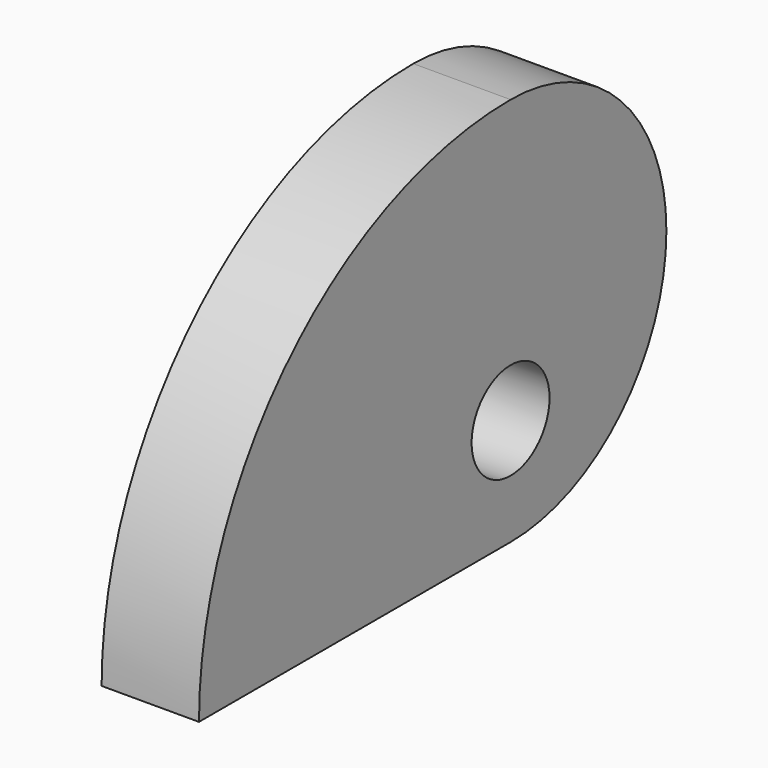
from build123d import *

# Parameters (mm, degrees)
F1_DEPTH = 3.175
F2_R     = 3.175
F3_DEPTH = 6.351


with BuildPart() as f1:
    # F0 (on Right) → F1 (new body, symmetric)
    with BuildSketch(Plane.YZ):
        with BuildLine():
            Line((0, -12.7), (0, 0))
            Line((0, 0), (0, 12.7))
            ThreePointArc((0, 12.7), (-17.960512, 5.260512), (-25.4, -12.7))
            Line((-25.4, -12.7), (0, -12.7))
        make_face()
        with BuildLine():
            Line((0, 12.7), (0, 0))
            Line((0, 0), (12.7, 0))
            ThreePointArc((12.7, 0), (8.980256, 8.980256), (0, 12.7))
        make_face()
        with BuildLine():
            Line((12.7, 0), (0, 0))
            Line((0, 0), (0, -12.7))
            ThreePointArc((0, -12.7), (8.980256, -8.980256), (12.7, 0))
        make_face()
    extrude(amount=F1_DEPTH, both=True)

    # F2 (on face) → F3 (cut, through all)
    with BuildSketch(Plane.YZ.offset(3.175)):
        with Locations((0, -5.715)):
            Circle(F2_R)
    extrude(amount=-F3_DEPTH, mode=Mode.SUBTRACT)


solid = f1.part
